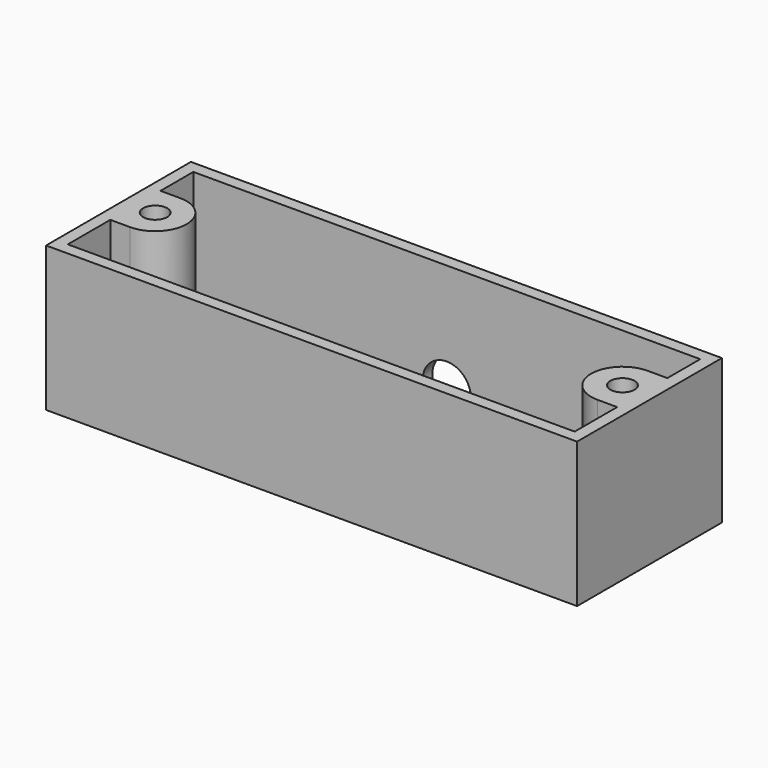
from build123d import *

# Parameters (mm, degrees)
F1_W     = 69.85
F1_H     = 23.8125
F2_DEPTH = 19.05
F3_T     = -1.5875
F4_R     = 1.5875
F5_DEPTH = 17.4625
F6_R     = 3.175
F7_DEPTH = 1.5875


with BuildPart() as f2:
    # F1 (on Top) → F2 (new body)
    with BuildSketch(Plane.XY):
        with Locations((34.925, 11.90625)):
            Rectangle(F1_W, F1_H)
    extrude(amount=F2_DEPTH)

    # F3
    f3_openings = [f2.faces().sort_by_distance(p)[0] for p in [
        (34.925, 11.90625, 19.05),
    ]]
    offset(amount=F3_T, openings=f3_openings)

    # F4 (on face) → F5 (join, through all)
    with BuildSketch(Plane.XY.offset(19.05)):
        with BuildLine():
            Line((1.5875, 8.5725), (4.191, 8.5725))
            ThreePointArc((4.191, 8.5725), (8.3185, 12.7), (4.191, 16.8275))
            Line((4.191, 16.8275), (1.5875, 16.8275))
            Line((1.5875, 16.8275), (1.5875, 8.5725))
        make_face()
        with Locations((4.191, 12.7)):
            Circle(F4_R, mode=Mode.SUBTRACT)
        with BuildLine():
            Line((65.659, 8.5725), (68.2625, 8.5725))
            Line((68.2625, 8.5725), (68.2625, 16.8275))
            Line((68.2625, 16.8275), (65.659, 16.8275))
            ThreePointArc((65.659, 16.8275), (61.5315, 12.7), (65.659, 8.5725))
        make_face()
        with Locations((65.659, 12.7)):
            Circle(F4_R, mode=Mode.SUBTRACT)
    extrude(amount=-F5_DEPTH)

    # F6 (on face) → F7 (cut, through all)
    with BuildSketch(Plane(origin=(0, 23.8125, 0), x_dir=(-1, 0, 0), z_dir=(0, 1, 0))):
        with Locations((-34.925, 4.7625)):
            Circle(F6_R)
    extrude(amount=-F7_DEPTH, mode=Mode.SUBTRACT)


solid = f2.part
